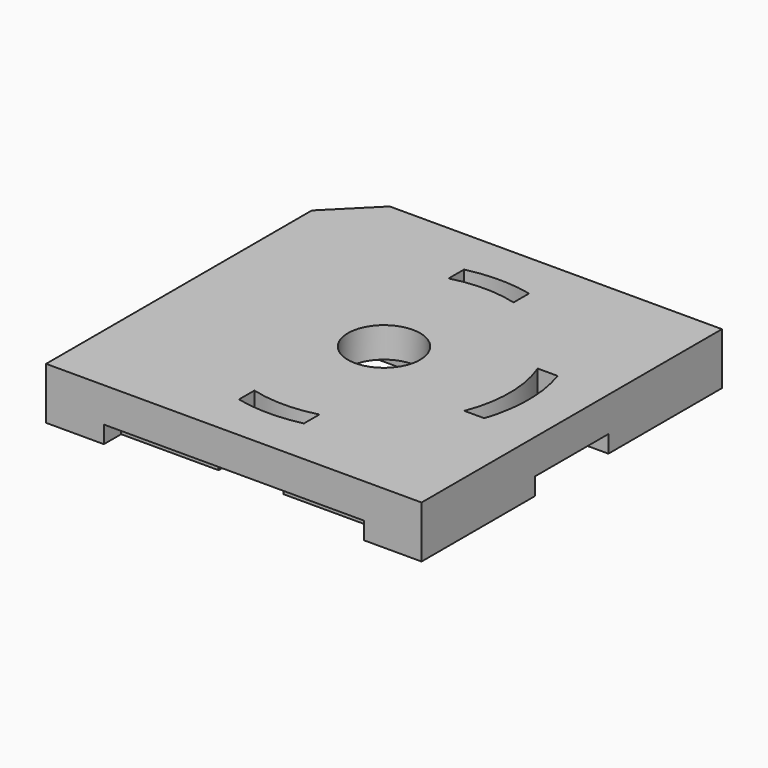
from build123d import *

# Parameters (mm, degrees)
SKETCH007_R   = 0.25
PAD003_DEPTH  = 1.23
PAD004_DEPTH  = 0.15
FILLET_R      = 0.2
SKETCH001_R   = 1
SKETCH001_R_2 = 0.87
PAD001_DEPTH  = 1.3
SKETCH002_W   = 0.775
SKETCH002_H   = 1.948718
SKETCH002_W_2 = 0.723262
SKETCH002_H_2 = 0.656869
POCKET_DEPTH  = 0.36
SKETCH003_W   = 0.591738
SKETCH003_H   = 0.63498
PAD002_DEPTH  = 0.12
PAD_DEPTH     = 0.36


with BuildPart() as body004:
    # Sketch007 → Pad003 (new body)
    with BuildSketch(Plane.XY):
        Circle(SKETCH007_R)
    extrude(amount=PAD003_DEPTH)

    # Sketch008 → Pad004 (join)
    with BuildSketch(Plane.XY):
        Polygon((-1.54, -0.3), (-0.5, -0.3), (-0.4, -0.4), (0.4, -0.4), (0.5, -0.3), (0.5, 0.3), (0.4, 0.4), (-0.4, 0.4), (-0.5, 0.3), (-1.54, 0.3), align=None)
    extrude(amount=PAD004_DEPTH)

    # Fillet
    fillet_edges = [body004.edges().sort_by_distance(p)[0] for p in [
        (-0.25, 0, 1.23),
    ]]
    fillet(fillet_edges, radius=FILLET_R)


with BuildPart() as body003:
    # Sketch001 → Pad001 (new body)
    with BuildSketch(Plane.XY):
        Circle(SKETCH001_R)
        Circle(SKETCH001_R_2, mode=Mode.SUBTRACT)
    extrude(amount=PAD001_DEPTH)

    # Sketch002 → Pocket (cut)
    with BuildSketch(Plane.XY):
        with Locations((-0.6125, 0)):
            Rectangle(SKETCH002_W, SKETCH002_H)
        with Locations((0.586631, 0.645925)):
            Rectangle(SKETCH002_W_2, SKETCH002_H_2)
        with Locations((0.586631, -0.645925)):
            Rectangle(SKETCH002_W_2, SKETCH002_H_2)
    extrude(amount=POCKET_DEPTH, mode=Mode.SUBTRACT)

    # Sketch003 → Pad002 (join)
    with BuildSketch(Plane.XY):
        Polygon((-0.225, -0.974359), (0.225, -0.974359), (0.225, -1.150402), (0.9, -1.150402), (0.9, -1.5), (-0.9, -1.5), (-0.9, -1.150402), (-0.225, -1.150402), align=None)
        Polygon((-0.225, 0.974359), (0.225, 0.974359), (0.225, 1.150402), (0.9, 1.150402), (0.9, 1.5), (-0.9, 1.5), (-0.9, 1.150402), (-0.225, 1.150402), align=None)
        with Locations((1.244131, 0)):
            Rectangle(SKETCH003_W, SKETCH003_H)
    extrude(amount=PAD002_DEPTH)

    # Sketch005 → Groove (revolve, cut)
    with BuildSketch(Plane.XZ):
        Polygon((1, 0.81), (0.93, 0.74), (0.93, 0.6), (1, 0.53), align=None)
        Polygon((0.93, 1.3), (1, 1.23), (1, 1.3), align=None)
    revolve(axis=Axis((0, 0, 0), (0, 0, 1)), mode=Mode.SUBTRACT)


with BuildPart() as cut001:
    # Sketch → Pad (new body)
    with BuildSketch(Plane.XY):
        Polygon((-1.3, 1), (-1.3, -1.3), (1.3, -1.3), (1.3, 1.3), (-1, 1.3), align=None)
    extrude(amount=PAD_DEPTH)

    # Cut: cut Body003
    add(body003.part, mode=Mode.SUBTRACT)

    # Cut001: cut Body004
    add(body004.part, mode=Mode.SUBTRACT)


solid = cut001.part
